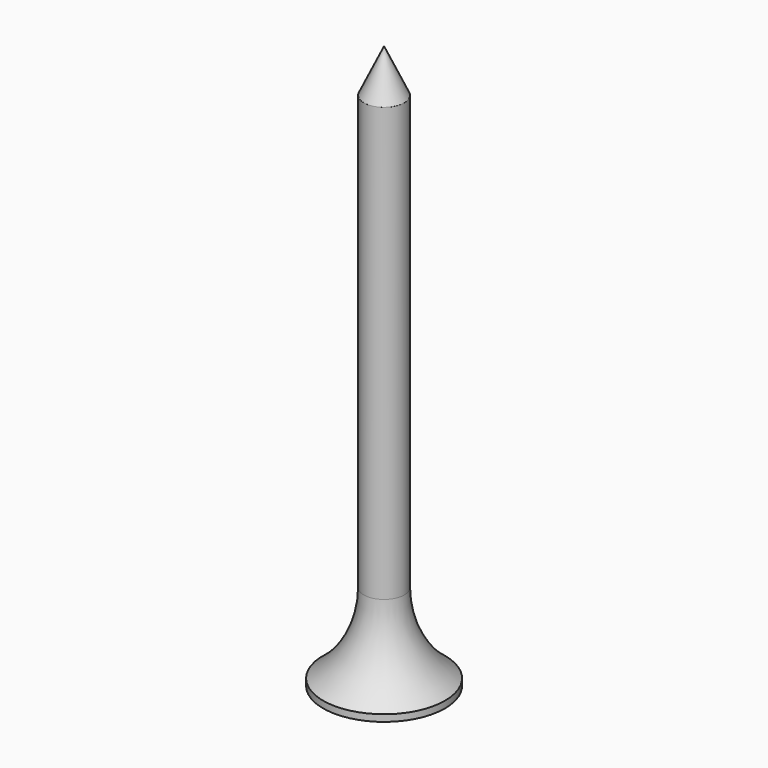
from build123d import *


with BuildPart() as f1:
    # F0 (on Front) → F1 (revolve)
    with BuildSketch(Plane.XZ):
        with BuildLine():
            ThreePointArc((0, 3.302), (3.231684, 2.4142), (5.55625, 0))
            Line((5.55625, 0), (7.14375, 0))
            Line((7.14375, 0), (7.14375, 0.79375))
            ThreePointArc((7.14375, 0.79375), (3.640248, 4.906238), (2.38125, 10.16))
            Line((2.38125, 10.16), (2.38125, 60.96))
            Line((2.38125, 60.96), (0, 66.04))
            Line((0, 66.04), (0, 3.302))
        make_face()
    revolve(axis=Axis((0, 0, 50.282862), (0, 0, 1)))


solid = f1.part
